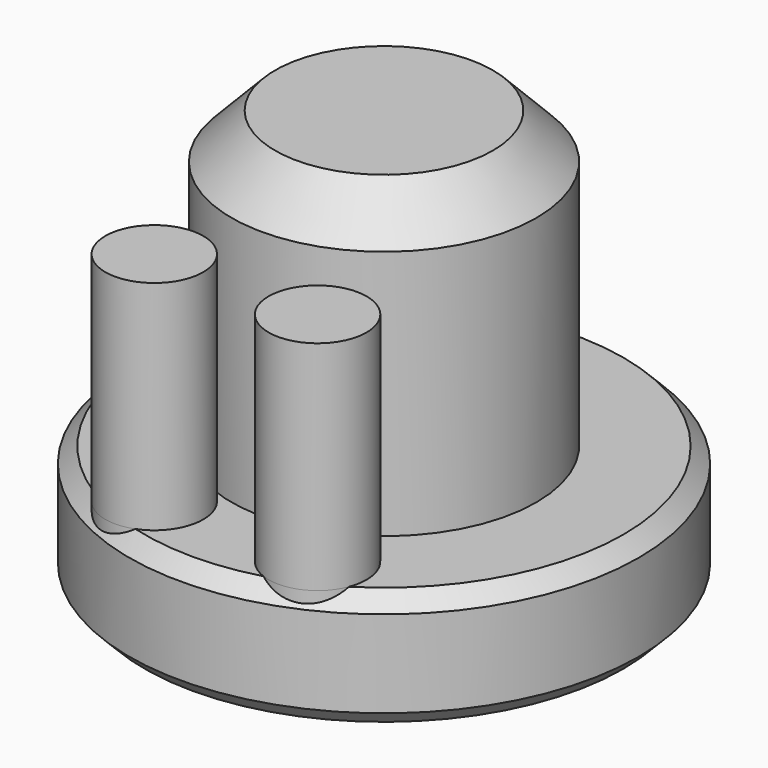
from build123d import *

# Parameters (mm, degrees)
SKETCH001_R    = 22.5
PAD_DEPTH      = 100
PAD_DEPTH_BACK = 40


with BuildPart() as part:
    # Sketch → Revolution (revolve)
    with BuildSketch(Plane.XZ):
        Polygon((70, 39.282857), (110, 39.282857), (117, 32.141428), (117, -7.858572), (110, -15), (50, -15), (50, 0), (0, 0), (0, 175), (50, 175), (70, 154.282857), align=None)
    revolve(axis=Axis((0, 0, 0), (0, 0, 1)))

    # Sketch001 (on Face1 of Revolution) → Pad (new body, two sides)
    with BuildSketch(Plane(origin=(0, 0, 39.282857), x_dir=(-1, 0, 0), z_dir=(0, 0, 1))) as pad_sk:
        with Locations((-37.5, 85)):
            Circle(SKETCH001_R)
        with Locations((37.5, 85)):
            Circle(SKETCH001_R)
    extrude(amount=PAD_DEPTH)
    extrude(pad_sk.sketch, amount=-PAD_DEPTH_BACK)


solid = part.part
